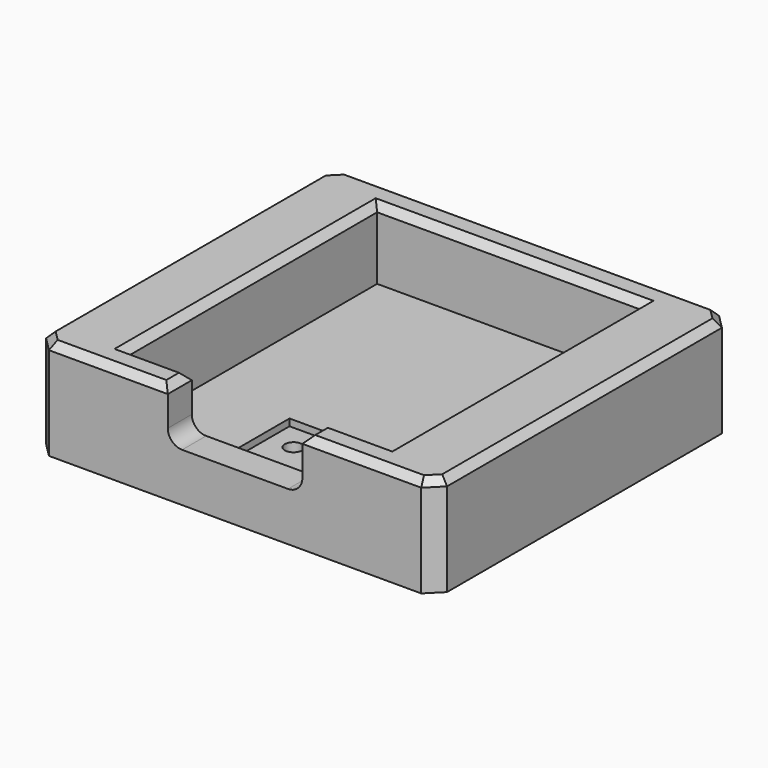
from build123d import *

# Parameters (mm, degrees)
SKETCH_W        = 28
SKETCH_H        = 26
PAD_DEPTH       = 3.5
SKETCH001_W     = 18.4
SKETCH001_H     = 21.8
POCKET_DEPTH    = 5
SKETCH002_W     = 9.4
SKETCH002_H     = 3
POCKET001_DEPTH = 5
SKETCH003_W     = 6
SKETCH003_H     = 6
POCKET002_DEPTH = 0.5
SKETCH004_R     = 0.6
POCKET003_DEPTH = 5
SKETCH010_R     = 0.8
POCKET006_DEPTH = 5
CHAMFER001_SIZE = 0.5
FILLET_R        = 1
CHAMFER002_SIZE = 1
CHAMFER003_SIZE = 0.5


with BuildPart() as part:
    # Sketch → Pad (new body, symmetric)
    with BuildSketch(Plane.XY):
        Rectangle(SKETCH_W, SKETCH_H)
    extrude(amount=PAD_DEPTH, both=True)

    # Sketch001 → Pocket (cut)
    with BuildSketch(Plane.XY.offset(-1.4)):
        Rectangle(SKETCH001_W, SKETCH001_H)
    extrude(amount=POCKET_DEPTH, mode=Mode.SUBTRACT)

    # Sketch002 → Pocket001 (cut)
    with BuildSketch(Plane.XY.offset(-0.1)):
        with Locations((0, -11.98)):
            Rectangle(SKETCH002_W, SKETCH002_H)
    extrude(amount=POCKET001_DEPTH, mode=Mode.SUBTRACT)

    # Sketch003 (on Face4 of Pocket001) → Pocket002 (cut)
    with BuildSketch(Plane(origin=(0, -7.5, -1.38), x_dir=(1, 0, 0), z_dir=(0, 0, -1))):
        Rectangle(SKETCH003_W, SKETCH003_H)
    extrude(amount=POCKET002_DEPTH, mode=Mode.SUBTRACT)

    # Sketch004 → Pocket003 (cut)
    with BuildSketch(Plane(origin=(0, -7.58, -1.3), x_dir=(1, 0, 0), z_dir=(0, 0, 1))):
        with Locations((-1.28, 1.28)):
            Circle(SKETCH004_R)
        with Locations((1.291315, 1.272746)):
            Circle(SKETCH004_R)
        with Locations((-1.28, -1.28)):
            Circle(SKETCH004_R)
        with Locations((1.28, -1.28)):
            Circle(SKETCH004_R)
    extrude(amount=-POCKET003_DEPTH, mode=Mode.SUBTRACT)

    # Sketch010 → Pocket006 (cut)
    with BuildSketch(Plane.XY.offset(-3.5)):
        with Locations((-10.923356, 0)):
            Circle(SKETCH010_R)
        with Locations((10.923356, 0)):
            Circle(SKETCH010_R)
    extrude(amount=POCKET006_DEPTH, mode=Mode.SUBTRACT)

    # Chamfer001
    chamfer001_edges = [part.edges().sort_by_distance(p)[0] for p in [
        (-9.2, 0, 3.5),
        (-4.7, -11.95, 3.5),
        (-6.95, -10.9, 3.5),
        (4.7, -11.95, 3.5),
        (6.95, -10.9, 3.5),
        (9.2, 0, 3.5),
        (0, 10.9, 3.5),
    ]]
    chamfer(chamfer001_edges, length=CHAMFER001_SIZE)

    # Fillet
    fillet_edges = [part.edges().sort_by_distance(p)[0] for p in [
        (-4.7, -11.95, -0.1),
        (4.7, -11.95, -0.1),
    ]]
    fillet(fillet_edges, radius=FILLET_R)

    # Chamfer002
    chamfer002_edges = [part.edges().sort_by_distance(p)[0] for p in [
        (14, -13, 0),
        (14, 13, 0),
        (-14, 13, 0),
        (-14, -13, 0),
    ]]
    chamfer(chamfer002_edges, length=CHAMFER002_SIZE)

    # Chamfer003
    chamfer003_edges = [part.edges().sort_by_distance(p)[0] for p in [
        (-14, 0, 3.5),
        (-13.5, -12.5, 3.5),
        (-9.1, -13, 3.5),
        (9.1, -13, 3.5),
        (13.5, -12.5, 3.5),
        (14, 0, 3.5),
        (-13.5, 12.5, 3.5),
        (0, 13, 3.5),
        (13.5, 12.5, 3.5),
    ]]
    chamfer(chamfer003_edges, length=CHAMFER003_SIZE)


solid = part.part
